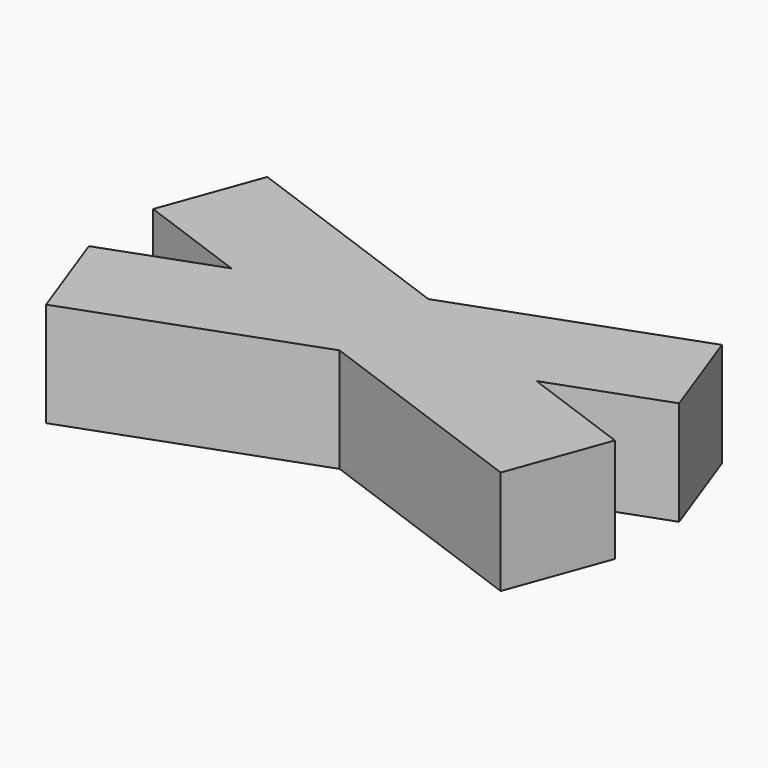
from build123d import *

# Parameters (mm, degrees)
BOX001_W               = 10
BOX001_H               = 2
BOX001_DEPTH           = 2
BOX001_PLACEMENT_ANGLE = 20
BOX_W                  = 10
BOX_H                  = 2
BOX_DEPTH              = 2
BOX_PLACEMENT_ANGLE    = 340


with BuildPart() as cubo001:
    # Box001 → Box001 (new body)
    with BuildSketch(Plane.XY):
        with Locations((5, 1)):
            Rectangle(BOX001_W, BOX001_H)
    extrude(amount=BOX001_DEPTH)


with BuildPart() as cubo001_1:
    # Box001 placement: moved
    add(cubo001.part.moved(Location((-4.356443, -2.649793, 0))).rotate(Axis((-4.356443, -2.649793, 0), (0, 0, 1)), BOX001_PLACEMENT_ANGLE))


with BuildPart() as fusion:
    # Box → Box (new body)
    with BuildSketch(Plane.XY):
        with Locations((5, 1)):
            Rectangle(BOX_W, BOX_H)
    extrude(amount=BOX_DEPTH)


with BuildPart() as fusion_1:
    # Box placement: moved
    add(fusion.part.moved(Location((-5.040483, 0.770408, 0))).rotate(Axis((-5.040483, 0.770408, 0), (0, 0, 1)), BOX_PLACEMENT_ANGLE))

    # Fusion: union Cubo001
    add(cubo001_1.part)


solid = fusion_1.part
